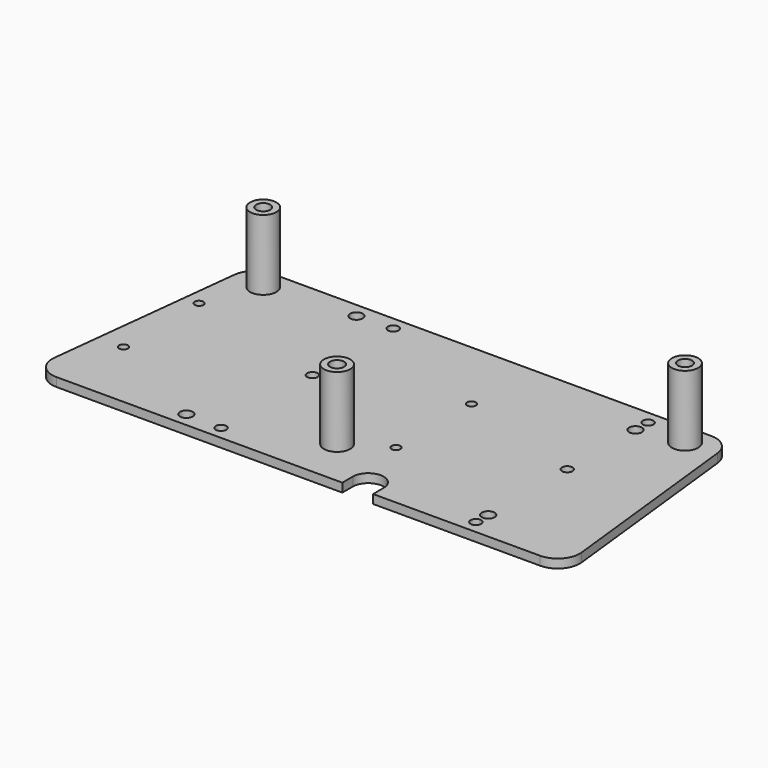
from build123d import *

# Parameters (mm, degrees)
PAD_DEPTH     = 2
SKETCH001_R   = 3
PAD001_DEPTH  = 16
SKETCH002_R   = 1.6
SKETCH002_R_2 = 1
SKETCH002_R_3 = 1.2
SKETCH002_R_4 = 1.45
POCKET_DEPTH  = 18.001


with BuildPart() as part:
    # Sketch → Pad (new body)
    with BuildSketch(Plane.XY):
        with BuildLine():
            ThreePointArc((-50, 44), (-53.333341, 42.726773), (-54.969042, 39.555534))
            Line((-54.969042, 39.555534), (-60, -5.444466))
            ThreePointArc((-60, -5.444466), (-58.75773, -9.333341), (-55.030958, -11))
            Line((-55.030958, -11), (55.030958, -11))
            ThreePointArc((55.030958, -11), (58.75773, -9.333341), (60, -5.444466))
            Line((54.969042, 39.555534), (60, -5.444466))
            ThreePointArc((54.969042, 39.555534), (53.333341, 42.726773), (50, 44))
            Line((-50, 44), (50, 44))
        make_face()
    extrude(amount=PAD_DEPTH)

    # Sketch001 → Pad001 (join)
    with BuildSketch(Plane.XY.offset(2)):
        Circle(SKETCH001_R)
        with Locations((-48, 39)):
            Circle(SKETCH001_R)
        with Locations((48, 39)):
            Circle(SKETCH001_R)
    extrude(amount=PAD001_DEPTH)

    # Sketch002 → Pocket (cut, through all)
    with BuildSketch(Plane(origin=(0, 0, 0), x_dir=(1, 0, 0), z_dir=(0, 0, -1))):
        Circle(SKETCH002_R)
        with Locations((-48, -39)):
            Circle(SKETCH002_R)
        with Locations((48, -39)):
            Circle(SKETCH002_R)
        with Locations((9, -5.5)):
            Circle(SKETCH002_R_2)
        with Locations((9, -27)):
            Circle(SKETCH002_R_2)
        with Locations((38, 8)):
            Circle(SKETCH002_R_3)
        with Locations((38, -41)):
            Circle(SKETCH002_R_3)
        with Locations((-20, -41)):
            Circle(SKETCH002_R_3)
        with Locations((-53, -27)):
            Circle(SKETCH002_R_2)
        with Locations((-53, -5.5)):
            Circle(SKETCH002_R_2)
        with Locations((-20, 8)):
            Circle(SKETCH002_R_3)
        with Locations((-28.1, 7.74)):
            Circle(SKETCH002_R_4)
        with Locations((38, 4.5)):
            Circle(SKETCH002_R_4)
        with Locations((-28.1, -40.65)):
            Circle(SKETCH002_R_4)
        with Locations((38, -37.41)):
            Circle(SKETCH002_R_4)
        with Locations((-20, -18)):
            Circle(SKETCH002_R_3)
        with Locations((38, -18)):
            Circle(SKETCH002_R_3)
        with BuildLine():
            ThreePointArc((17, 12), (13.5, 15.5), (10, 12))
            Line((10, 12), (10, 8))
            ThreePointArc((10, 8), (13.5, 4.5), (17, 8))
            Line((17, 8), (17, 12))
        make_face()
    extrude(amount=-POCKET_DEPTH, mode=Mode.SUBTRACT)


with BuildPart() as part_1:
    # Body placement: moved
    add(part.part.moved(Location((0, 44, 27.4))))


solid = part_1.part
